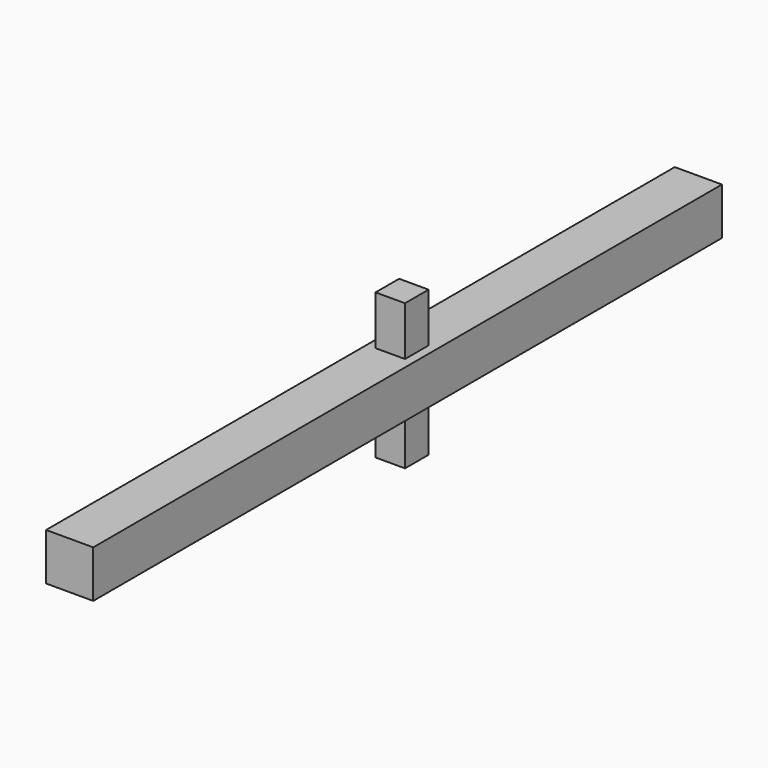
from build123d import *

# Parameters (mm, degrees)
F0_W     = 48
F0_H     = 48
F1_DEPTH = 800
F2_W     = 30
F2_H     = 30
F3_DEPTH = 50
F4_W     = 30
F4_H     = 30
F5_DEPTH = 50


with BuildPart() as f1:
    # F0 (on Front) → F1 (new body)
    with BuildSketch(Plane.XZ):
        Rectangle(F0_W, F0_H)
    extrude(amount=-F1_DEPTH)

    # F2 (on face) → F3 (join)
    with BuildSketch(Plane.XY.offset(24)):
        with Locations((0, 423)):
            Rectangle(F2_W, F2_H)
    extrude(amount=F3_DEPTH)

    # F4 (on face) → F5 (join)
    with BuildSketch(Plane(origin=(0, 0, -24), x_dir=(1, 0, 0), z_dir=(0, 0, -1))):
        with Locations((0, -423)):
            Rectangle(F4_W, F4_H)
    extrude(amount=F5_DEPTH)


solid = f1.part
